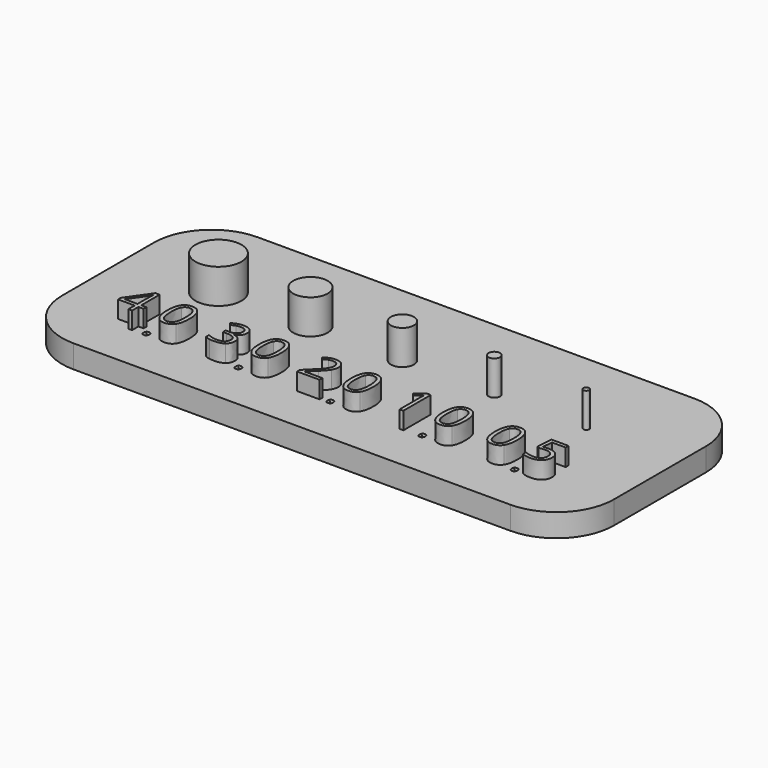
from build123d import *

# Parameters (mm, degrees)
F1_W     = 48
F1_H     = 20
F2_DEPTH = 2
F0_R     = 2
F0_R_2   = 1.5
F0_R_3   = 1
F0_R_4   = 0.5
F0_R_5   = 0.25
F3_DEPTH = 3
F4_DEPTH = 1.5
F5_DEPTH = 1
F6_R     = 5


with BuildPart() as f2:
    # F1 (on face) → F2 (new body)
    with BuildSketch(Plane.XY):
        with Locations((-8, 10)):
            Rectangle(F1_W, F1_H)
    extrude(amount=-F2_DEPTH)

    # F0 (on Top) → F3 (join)
    with BuildSketch(Plane.XY):
        with Locations((-24, 12)):
            Circle(F0_R)
        with Locations((-16, 12)):
            Circle(F0_R_2)
        with Locations((-8, 12)):
            Circle(F0_R_3)
        with Locations((0, 12)):
            Circle(F0_R_4)
        with Locations((8, 12)):
            Circle(F0_R_5)
    extrude(amount=F3_DEPTH)

    # F0 (on Top) → F4 (join)
    with BuildSketch(Plane.XY):
        Polygon((-25.1106770833, 4.68359375), (-24.6692708333, 4.68359375), (-24.6692708333, 4.9908854167), (-25.1106770833, 4.9908854167), (-25.1106770833, 6.9908854167), (-25.46875, 6.9908854167), (-26.880859375, 4.978515625), (-26.880859375, 4.68359375), (-25.4342447917, 4.68359375), (-25.4342447917, 4), (-25.1106770833, 4), align=None)
        with BuildLine():
            Line((-25.4342447917, 5.9798177083), (-25.4342447917, 4.9908854167))
            Line((-25.4342447917, 4.9908854167), (-26.54296875, 4.9908854167))
            Line((-26.54296875, 4.9908854167), (-25.61328125, 6.3131510417))
            add(Edge.make_bspline(
                [(-25.4296875, 6.63671875), (-25.52734375, 6.44140625), (-25.61328125, 6.3131510417)],
                knots=[0, 0, 0, 1, 1, 1], degree=2))
            Line((-25.4296875, 6.63671875), (-25.4134114583, 6.63671875))
            add(Edge.make_bspline(
                [(-25.4342447917, 5.9798177083), (-25.4342447917, 6.2708333333), (-25.4134114583, 6.63671875)],
                knots=[0, 0, 0, 1, 1, 1], degree=2))
        make_face(mode=Mode.SUBTRACT)
        with BuildLine():
            add(Edge.make_bspline(
                [(-21.3020833333, 5.4915364583), (-21.3020833333, 4.7200520833), (-21.5452473958, 4.3395182292)],
                knots=[0, 0, 0, 1, 1, 1], degree=2))
            add(Edge.make_bspline(
                [(-21.5533854167, 6.6285807292), (-21.3020833333, 6.2356770833), (-21.3020833333, 5.4915364583)],
                knots=[0, 0, 0, 1, 1, 1], degree=2))
            add(Edge.make_bspline(
                [(-22.2890625, 7.021484375), (-21.8046875, 7.021484375), (-21.5533854167, 6.6285807292)],
                knots=[0, 0, 0, 1, 1, 1], degree=2))
            add(Edge.make_bspline(
                [(-23.02734375, 6.6448567708), (-22.78515625, 7.021484375), (-22.2890625, 7.021484375)],
                knots=[0, 0, 0, 1, 1, 1], degree=2))
            add(Edge.make_bspline(
                [(-23.26953125, 5.4915364583), (-23.26953125, 6.2682291667), (-23.02734375, 6.6448567708)],
                knots=[0, 0, 0, 1, 1, 1], degree=2))
            add(Edge.make_bspline(
                [(-23.0192057292, 4.3486328125), (-23.26953125, 4.73828125), (-23.26953125, 5.4915364583)],
                knots=[0, 0, 0, 1, 1, 1], degree=2))
            add(Edge.make_bspline(
                [(-22.2890625, 3.958984375), (-22.7688802083, 3.958984375), (-23.0192057292, 4.3486328125)],
                knots=[0, 0, 0, 1, 1, 1], degree=2))
            add(Edge.make_bspline(
                [(-21.5452473958, 4.3395182292), (-21.7884114583, 3.958984375), (-22.2890625, 3.958984375)],
                knots=[0, 0, 0, 1, 1, 1], degree=2))
        make_face()
        with BuildLine():
            add(Edge.make_bspline(
                [(-22.927734375, 5.4915364583), (-22.927734375, 4.8424479167), (-22.7750651042, 4.5462239583)],
                knots=[0, 0, 0, 1, 1, 1], degree=2))
            add(Edge.make_bspline(
                [(-22.7750651042, 6.4345703125), (-22.927734375, 6.140625), (-22.927734375, 5.4915364583)],
                knots=[0, 0, 0, 1, 1, 1], degree=2))
            add(Edge.make_bspline(
                [(-22.2890625, 6.728515625), (-22.6223958333, 6.728515625), (-22.7750651042, 6.4345703125)],
                knots=[0, 0, 0, 1, 1, 1], degree=2))
            add(Edge.make_bspline(
                [(-21.7998046875, 6.4303385417), (-21.951171875, 6.728515625), (-22.2890625, 6.728515625)],
                knots=[0, 0, 0, 1, 1, 1], degree=2))
            add(Edge.make_bspline(
                [(-21.6484375, 5.4915364583), (-21.6484375, 6.1321614583), (-21.7998046875, 6.4303385417)],
                knots=[0, 0, 0, 1, 1, 1], degree=2))
            add(Edge.make_bspline(
                [(-21.7998046875, 4.5501302083), (-21.6484375, 4.8502604167), (-21.6484375, 5.4915364583)],
                knots=[0, 0, 0, 1, 1, 1], degree=2))
            add(Edge.make_bspline(
                [(-22.2890625, 4.25), (-21.951171875, 4.25), (-21.7998046875, 4.5501302083)],
                knots=[0, 0, 0, 1, 1, 1], degree=2))
            add(Edge.make_bspline(
                [(-22.7750651042, 4.5462239583), (-22.6223958333, 4.25), (-22.2890625, 4.25)],
                knots=[0, 0, 0, 1, 1, 1], degree=2))
        make_face(mode=Mode.SUBTRACT)
        with BuildLine():
            add(Edge.make_bspline(
                [(-16.9212239583, 6.2747395833), (-16.9212239583, 5.9895833333), (-17.0810546875, 5.80859375)],
                knots=[0, 0, 0, 1, 1, 1], degree=2))
            add(Edge.make_bspline(
                [(-17.1614583333, 6.8186848958), (-16.9212239583, 6.6204427083), (-16.9212239583, 6.2747395833)],
                knots=[0, 0, 0, 1, 1, 1], degree=2))
            add(Edge.make_bspline(
                [(-17.8346354167, 7.0169270833), (-17.4016927083, 7.0169270833), (-17.1614583333, 6.8186848958)],
                knots=[0, 0, 0, 1, 1, 1], degree=2))
            add(Edge.make_bspline(
                [(-18.3385416667, 6.9345703125), (-18.099609375, 7.0169270833), (-17.8346354167, 7.0169270833)],
                knots=[0, 0, 0, 1, 1, 1], degree=2))
            add(Edge.make_bspline(
                [(-18.7604166667, 6.7076822917), (-18.5774739583, 6.8522135417), (-18.3385416667, 6.9345703125)],
                knots=[0, 0, 0, 1, 1, 1], degree=2))
            Line((-18.7604166667, 6.7076822917), (-18.58984375, 6.4798177083))
            add(Edge.make_bspline(
                [(-18.1949869792, 6.6754557292), (-18.3678385417, 6.6223958333), (-18.58984375, 6.4798177083)],
                knots=[0, 0, 0, 1, 1, 1], degree=2))
            add(Edge.make_bspline(
                [(-17.8268229167, 6.728515625), (-18.0221354167, 6.728515625), (-18.1949869792, 6.6754557292)],
                knots=[0, 0, 0, 1, 1, 1], degree=2))
            add(Edge.make_bspline(
                [(-17.4208984375, 6.6041666667), (-17.5703125, 6.728515625), (-17.8268229167, 6.728515625)],
                knots=[0, 0, 0, 1, 1, 1], degree=2))
            add(Edge.make_bspline(
                [(-17.271484375, 6.2623697917), (-17.271484375, 6.4798177083), (-17.4208984375, 6.6041666667)],
                knots=[0, 0, 0, 1, 1, 1], degree=2))
            add(Edge.make_bspline(
                [(-17.4749348958, 5.8359375), (-17.271484375, 5.9895833333), (-17.271484375, 6.2623697917)],
                knots=[0, 0, 0, 1, 1, 1], degree=2))
            add(Edge.make_bspline(
                [(-18.0260416667, 5.6822916667), (-17.6783854167, 5.6822916667), (-17.4749348958, 5.8359375)],
                knots=[0, 0, 0, 1, 1, 1], degree=2))
            Line((-18.0260416667, 5.6822916667), (-18.3229166667, 5.6822916667))
            Line((-18.3229166667, 5.6822916667), (-18.3229166667, 5.3919270833))
            Line((-18.3229166667, 5.3919270833), (-18.0299479167, 5.3919270833))
            add(Edge.make_bspline(
                [(-17.1796875, 4.8502604167), (-17.1796875, 5.3919270833), (-18.0299479167, 5.3919270833)],
                knots=[0, 0, 0, 1, 1, 1], degree=2))
            add(Edge.make_bspline(
                [(-17.9505208333, 4.24609375), (-17.1796875, 4.24609375), (-17.1796875, 4.8502604167)],
                knots=[0, 0, 0, 1, 1, 1], degree=2))
            add(Edge.make_bspline(
                [(-18.3645833333, 4.2958984375), (-18.1458333333, 4.24609375), (-17.9505208333, 4.24609375)],
                knots=[0, 0, 0, 1, 1, 1], degree=2))
            add(Edge.make_bspline(
                [(-18.7766927083, 4.44140625), (-18.5833333333, 4.345703125), (-18.3645833333, 4.2958984375)],
                knots=[0, 0, 0, 1, 1, 1], degree=2))
            Line((-18.7766927083, 4.44140625), (-18.7766927083, 4.1197916667))
            add(Edge.make_bspline(
                [(-18.3955078125, 3.9947916667), (-18.591796875, 4.0305989583), (-18.7766927083, 4.1197916667)],
                knots=[0, 0, 0, 1, 1, 1], degree=2))
            add(Edge.make_bspline(
                [(-17.962890625, 3.958984375), (-18.19921875, 3.958984375), (-18.3955078125, 3.9947916667)],
                knots=[0, 0, 0, 1, 1, 1], degree=2))
            add(Edge.make_bspline(
                [(-17.125, 4.1881510417), (-17.419921875, 3.958984375), (-17.962890625, 3.958984375)],
                knots=[0, 0, 0, 1, 1, 1], degree=2))
            add(Edge.make_bspline(
                [(-16.830078125, 4.8424479167), (-16.830078125, 4.4173177083), (-17.125, 4.1881510417)],
                knots=[0, 0, 0, 1, 1, 1], degree=2))
            add(Edge.make_bspline(
                [(-17.0029296875, 5.3225911458), (-16.830078125, 5.1393229167), (-16.830078125, 4.8424479167)],
                knots=[0, 0, 0, 1, 1, 1], degree=2))
            add(Edge.make_bspline(
                [(-17.5338541667, 5.5501302083), (-17.17578125, 5.505859375), (-17.0029296875, 5.3225911458)],
                knots=[0, 0, 0, 1, 1, 1], degree=2))
            Line((-17.5338541667, 5.5501302083), (-17.5338541667, 5.56640625))
            add(Edge.make_bspline(
                [(-17.0810546875, 5.80859375), (-17.2408854167, 5.6276041667), (-17.5338541667, 5.56640625)],
                knots=[0, 0, 0, 1, 1, 1], degree=2))
        make_face()
        with BuildLine():
            add(Edge.make_bspline(
                [(-13.3020833333, 5.4915364583), (-13.3020833333, 4.7200520833), (-13.5452473958, 4.3395182292)],
                knots=[0, 0, 0, 1, 1, 1], degree=2))
            add(Edge.make_bspline(
                [(-13.5533854167, 6.6285807292), (-13.3020833333, 6.2356770833), (-13.3020833333, 5.4915364583)],
                knots=[0, 0, 0, 1, 1, 1], degree=2))
            add(Edge.make_bspline(
                [(-14.2890625, 7.021484375), (-13.8046875, 7.021484375), (-13.5533854167, 6.6285807292)],
                knots=[0, 0, 0, 1, 1, 1], degree=2))
            add(Edge.make_bspline(
                [(-15.02734375, 6.6448567708), (-14.78515625, 7.021484375), (-14.2890625, 7.021484375)],
                knots=[0, 0, 0, 1, 1, 1], degree=2))
            add(Edge.make_bspline(
                [(-15.26953125, 5.4915364583), (-15.26953125, 6.2682291667), (-15.02734375, 6.6448567708)],
                knots=[0, 0, 0, 1, 1, 1], degree=2))
            add(Edge.make_bspline(
                [(-15.0192057292, 4.3486328125), (-15.26953125, 4.73828125), (-15.26953125, 5.4915364583)],
                knots=[0, 0, 0, 1, 1, 1], degree=2))
            add(Edge.make_bspline(
                [(-14.2890625, 3.958984375), (-14.7688802083, 3.958984375), (-15.0192057292, 4.3486328125)],
                knots=[0, 0, 0, 1, 1, 1], degree=2))
            add(Edge.make_bspline(
                [(-13.5452473958, 4.3395182292), (-13.7884114583, 3.958984375), (-14.2890625, 3.958984375)],
                knots=[0, 0, 0, 1, 1, 1], degree=2))
        make_face()
        with BuildLine():
            add(Edge.make_bspline(
                [(-14.927734375, 5.4915364583), (-14.927734375, 4.8424479167), (-14.7750651042, 4.5462239583)],
                knots=[0, 0, 0, 1, 1, 1], degree=2))
            add(Edge.make_bspline(
                [(-14.7750651042, 6.4345703125), (-14.927734375, 6.140625), (-14.927734375, 5.4915364583)],
                knots=[0, 0, 0, 1, 1, 1], degree=2))
            add(Edge.make_bspline(
                [(-14.2890625, 6.728515625), (-14.6223958333, 6.728515625), (-14.7750651042, 6.4345703125)],
                knots=[0, 0, 0, 1, 1, 1], degree=2))
            add(Edge.make_bspline(
                [(-13.7998046875, 6.4303385417), (-13.951171875, 6.728515625), (-14.2890625, 6.728515625)],
                knots=[0, 0, 0, 1, 1, 1], degree=2))
            add(Edge.make_bspline(
                [(-13.6484375, 5.4915364583), (-13.6484375, 6.1321614583), (-13.7998046875, 6.4303385417)],
                knots=[0, 0, 0, 1, 1, 1], degree=2))
            add(Edge.make_bspline(
                [(-13.7998046875, 4.5501302083), (-13.6484375, 4.8502604167), (-13.6484375, 5.4915364583)],
                knots=[0, 0, 0, 1, 1, 1], degree=2))
            add(Edge.make_bspline(
                [(-14.2890625, 4.25), (-13.951171875, 4.25), (-13.7998046875, 4.5501302083)],
                knots=[0, 0, 0, 1, 1, 1], degree=2))
            add(Edge.make_bspline(
                [(-14.7750651042, 4.5462239583), (-14.6223958333, 4.25), (-14.2890625, 4.25)],
                knots=[0, 0, 0, 1, 1, 1], degree=2))
        make_face(mode=Mode.SUBTRACT)
        with BuildLine():
            Line((-10.7643229167, 4), (-8.8092447917, 4))
            Line((-8.8092447917, 4), (-8.8092447917, 4.3131510417))
            Line((-8.8092447917, 4.3131510417), (-10.3391927083, 4.3131510417))
            Line((-10.3391927083, 4.3131510417), (-10.3391927083, 4.3294270833))
            Line((-10.3391927083, 4.3294270833), (-9.6881510417, 4.9661458333))
            add(Edge.make_bspline(
                [(-9.0944010417, 5.666015625), (-9.2532552083, 5.3893229167), (-9.6881510417, 4.9661458333)],
                knots=[0, 0, 0, 1, 1, 1], degree=2))
            add(Edge.make_bspline(
                [(-8.935546875, 6.2259114583), (-8.935546875, 5.9427083333), (-9.0944010417, 5.666015625)],
                knots=[0, 0, 0, 1, 1, 1], degree=2))
            add(Edge.make_bspline(
                [(-9.1735026042, 6.8024088542), (-8.935546875, 6.587890625), (-8.935546875, 6.2259114583)],
                knots=[0, 0, 0, 1, 1, 1], degree=2))
            add(Edge.make_bspline(
                [(-9.8307291667, 7.0169270833), (-9.4114583333, 7.0169270833), (-9.1735026042, 6.8024088542)],
                knots=[0, 0, 0, 1, 1, 1], degree=2))
            add(Edge.make_bspline(
                [(-10.7259114583, 6.6751302083), (-10.3151041667, 7.0169270833), (-9.8307291667, 7.0169270833)],
                knots=[0, 0, 0, 1, 1, 1], degree=2))
            Line((-10.7259114583, 6.6751302083), (-10.546875, 6.4453125))
            add(Edge.make_bspline(
                [(-10.177734375, 6.6673177083), (-10.34375, 6.6061197917), (-10.546875, 6.4453125)],
                knots=[0, 0, 0, 1, 1, 1], degree=2))
            add(Edge.make_bspline(
                [(-9.8268229167, 6.728515625), (-10.01171875, 6.728515625), (-10.177734375, 6.6673177083)],
                knots=[0, 0, 0, 1, 1, 1], degree=2))
            add(Edge.make_bspline(
                [(-9.42578125, 6.5891927083), (-9.5703125, 6.728515625), (-9.8268229167, 6.728515625)],
                knots=[0, 0, 0, 1, 1, 1], degree=2))
            add(Edge.make_bspline(
                [(-9.28125, 6.2115885417), (-9.28125, 6.4498697917), (-9.42578125, 6.5891927083)],
                knots=[0, 0, 0, 1, 1, 1], degree=2))
            add(Edge.make_bspline(
                [(-9.3382161458, 5.896484375), (-9.28125, 6.04296875), (-9.28125, 6.2115885417)],
                knots=[0, 0, 0, 1, 1, 1], degree=2))
            add(Edge.make_bspline(
                [(-9.5091145833, 5.5953776042), (-9.3951822917, 5.75), (-9.3382161458, 5.896484375)],
                knots=[0, 0, 0, 1, 1, 1], degree=2))
            add(Edge.make_bspline(
                [(-9.9811197917, 5.078125), (-9.623046875, 5.4407552083), (-9.5091145833, 5.5953776042)],
                knots=[0, 0, 0, 1, 1, 1], degree=2))
            Line((-9.9811197917, 5.078125), (-10.7643229167, 4.291015625))
            Line((-10.7643229167, 4.291015625), (-10.7643229167, 4))
        make_face()
        with BuildLine():
            add(Edge.make_bspline(
                [(-5.3020833333, 5.4915364583), (-5.3020833333, 4.7200520833), (-5.5452473958, 4.3395182292)],
                knots=[0, 0, 0, 1, 1, 1], degree=2))
            add(Edge.make_bspline(
                [(-5.5533854167, 6.6285807292), (-5.3020833333, 6.2356770833), (-5.3020833333, 5.4915364583)],
                knots=[0, 0, 0, 1, 1, 1], degree=2))
            add(Edge.make_bspline(
                [(-6.2890625, 7.021484375), (-5.8046875, 7.021484375), (-5.5533854167, 6.6285807292)],
                knots=[0, 0, 0, 1, 1, 1], degree=2))
            add(Edge.make_bspline(
                [(-7.02734375, 6.6448567708), (-6.78515625, 7.021484375), (-6.2890625, 7.021484375)],
                knots=[0, 0, 0, 1, 1, 1], degree=2))
            add(Edge.make_bspline(
                [(-7.26953125, 5.4915364583), (-7.26953125, 6.2682291667), (-7.02734375, 6.6448567708)],
                knots=[0, 0, 0, 1, 1, 1], degree=2))
            add(Edge.make_bspline(
                [(-7.0192057292, 4.3486328125), (-7.26953125, 4.73828125), (-7.26953125, 5.4915364583)],
                knots=[0, 0, 0, 1, 1, 1], degree=2))
            add(Edge.make_bspline(
                [(-6.2890625, 3.958984375), (-6.7688802083, 3.958984375), (-7.0192057292, 4.3486328125)],
                knots=[0, 0, 0, 1, 1, 1], degree=2))
            add(Edge.make_bspline(
                [(-5.5452473958, 4.3395182292), (-5.7884114583, 3.958984375), (-6.2890625, 3.958984375)],
                knots=[0, 0, 0, 1, 1, 1], degree=2))
        make_face()
        with BuildLine():
            add(Edge.make_bspline(
                [(-6.927734375, 5.4915364583), (-6.927734375, 4.8424479167), (-6.7750651042, 4.5462239583)],
                knots=[0, 0, 0, 1, 1, 1], degree=2))
            add(Edge.make_bspline(
                [(-6.7750651042, 6.4345703125), (-6.927734375, 6.140625), (-6.927734375, 5.4915364583)],
                knots=[0, 0, 0, 1, 1, 1], degree=2))
            add(Edge.make_bspline(
                [(-6.2890625, 6.728515625), (-6.6223958333, 6.728515625), (-6.7750651042, 6.4345703125)],
                knots=[0, 0, 0, 1, 1, 1], degree=2))
            add(Edge.make_bspline(
                [(-5.7998046875, 6.4303385417), (-5.951171875, 6.728515625), (-6.2890625, 6.728515625)],
                knots=[0, 0, 0, 1, 1, 1], degree=2))
            add(Edge.make_bspline(
                [(-5.6484375, 5.4915364583), (-5.6484375, 6.1321614583), (-5.7998046875, 6.4303385417)],
                knots=[0, 0, 0, 1, 1, 1], degree=2))
            add(Edge.make_bspline(
                [(-5.7998046875, 4.5501302083), (-5.6484375, 4.8502604167), (-5.6484375, 5.4915364583)],
                knots=[0, 0, 0, 1, 1, 1], degree=2))
            add(Edge.make_bspline(
                [(-6.2890625, 4.25), (-5.951171875, 4.25), (-5.7998046875, 4.5501302083)],
                knots=[0, 0, 0, 1, 1, 1], degree=2))
            add(Edge.make_bspline(
                [(-6.7750651042, 4.5462239583), (-6.6223958333, 4.25), (-6.2890625, 4.25)],
                knots=[0, 0, 0, 1, 1, 1], degree=2))
        make_face(mode=Mode.SUBTRACT)
        with BuildLine():
            Line((-1.8430989583, 4), (-1.513671875, 4))
            Line((-1.513671875, 4), (-1.513671875, 6.974609375))
            Line((-1.513671875, 6.974609375), (-1.7981770833, 6.974609375))
            Line((-1.7981770833, 6.974609375), (-2.5852864583, 6.3658854167))
            Line((-2.5852864583, 6.3658854167), (-2.40625, 6.1341145833))
            add(Edge.make_bspline(
                [(-1.9222005208, 6.5309244792), (-1.9752604167, 6.484375), (-2.40625, 6.1341145833)],
                knots=[0, 0, 0, 1, 1, 1], degree=2))
            add(Edge.make_bspline(
                [(-1.8268229167, 6.6204427083), (-1.869140625, 6.5774739583), (-1.9222005208, 6.5309244792)],
                knots=[0, 0, 0, 1, 1, 1], degree=2))
            add(Edge.make_bspline(
                [(-1.8430989583, 6.1197916667), (-1.8430989583, 6.384765625), (-1.8268229167, 6.6204427083)],
                knots=[0, 0, 0, 1, 1, 1], degree=2))
            Line((-1.8430989583, 6.1197916667), (-1.8430989583, 4))
        make_face()
        with BuildLine():
            add(Edge.make_bspline(
                [(2.6979166667, 5.4915364583), (2.6979166667, 4.7200520833), (2.4547526042, 4.3395182292)],
                knots=[0, 0, 0, 1, 1, 1], degree=2))
            add(Edge.make_bspline(
                [(2.4466145833, 6.6285807292), (2.6979166667, 6.2356770833), (2.6979166667, 5.4915364583)],
                knots=[0, 0, 0, 1, 1, 1], degree=2))
            add(Edge.make_bspline(
                [(1.7109375, 7.021484375), (2.1953125, 7.021484375), (2.4466145833, 6.6285807292)],
                knots=[0, 0, 0, 1, 1, 1], degree=2))
            add(Edge.make_bspline(
                [(0.97265625, 6.6448567708), (1.21484375, 7.021484375), (1.7109375, 7.021484375)],
                knots=[0, 0, 0, 1, 1, 1], degree=2))
            add(Edge.make_bspline(
                [(0.73046875, 5.4915364583), (0.73046875, 6.2682291667), (0.97265625, 6.6448567708)],
                knots=[0, 0, 0, 1, 1, 1], degree=2))
            add(Edge.make_bspline(
                [(0.9807942708, 4.3486328125), (0.73046875, 4.73828125), (0.73046875, 5.4915364583)],
                knots=[0, 0, 0, 1, 1, 1], degree=2))
            add(Edge.make_bspline(
                [(1.7109375, 3.958984375), (1.2311197917, 3.958984375), (0.9807942708, 4.3486328125)],
                knots=[0, 0, 0, 1, 1, 1], degree=2))
            add(Edge.make_bspline(
                [(2.4547526042, 4.3395182292), (2.2115885417, 3.958984375), (1.7109375, 3.958984375)],
                knots=[0, 0, 0, 1, 1, 1], degree=2))
        make_face()
        with BuildLine():
            add(Edge.make_bspline(
                [(1.072265625, 5.4915364583), (1.072265625, 4.8424479167), (1.2249348958, 4.5462239583)],
                knots=[0, 0, 0, 1, 1, 1], degree=2))
            add(Edge.make_bspline(
                [(1.2249348958, 6.4345703125), (1.072265625, 6.140625), (1.072265625, 5.4915364583)],
                knots=[0, 0, 0, 1, 1, 1], degree=2))
            add(Edge.make_bspline(
                [(1.7109375, 6.728515625), (1.3776041667, 6.728515625), (1.2249348958, 6.4345703125)],
                knots=[0, 0, 0, 1, 1, 1], degree=2))
            add(Edge.make_bspline(
                [(2.2001953125, 6.4303385417), (2.048828125, 6.728515625), (1.7109375, 6.728515625)],
                knots=[0, 0, 0, 1, 1, 1], degree=2))
            add(Edge.make_bspline(
                [(2.3515625, 5.4915364583), (2.3515625, 6.1321614583), (2.2001953125, 6.4303385417)],
                knots=[0, 0, 0, 1, 1, 1], degree=2))
            add(Edge.make_bspline(
                [(2.2001953125, 4.5501302083), (2.3515625, 4.8502604167), (2.3515625, 5.4915364583)],
                knots=[0, 0, 0, 1, 1, 1], degree=2))
            add(Edge.make_bspline(
                [(1.7109375, 4.25), (2.048828125, 4.25), (2.2001953125, 4.5501302083)],
                knots=[0, 0, 0, 1, 1, 1], degree=2))
            add(Edge.make_bspline(
                [(1.2249348958, 4.5462239583), (1.3776041667, 4.25), (1.7109375, 4.25)],
                knots=[0, 0, 0, 1, 1, 1], degree=2))
        make_face(mode=Mode.SUBTRACT)
        with BuildLine():
            add(Edge.make_bspline(
                [(7.2233072917, 5.4915364583), (7.2233072917, 4.7200520833), (6.9801432292, 4.3395182292)],
                knots=[0, 0, 0, 1, 1, 1], degree=2))
            add(Edge.make_bspline(
                [(6.9720052083, 6.6285807292), (7.2233072917, 6.2356770833), (7.2233072917, 5.4915364583)],
                knots=[0, 0, 0, 1, 1, 1], degree=2))
            add(Edge.make_bspline(
                [(6.236328125, 7.021484375), (6.720703125, 7.021484375), (6.9720052083, 6.6285807292)],
                knots=[0, 0, 0, 1, 1, 1], degree=2))
            add(Edge.make_bspline(
                [(5.498046875, 6.6448567708), (5.740234375, 7.021484375), (6.236328125, 7.021484375)],
                knots=[0, 0, 0, 1, 1, 1], degree=2))
            add(Edge.make_bspline(
                [(5.255859375, 5.4915364583), (5.255859375, 6.2682291667), (5.498046875, 6.6448567708)],
                knots=[0, 0, 0, 1, 1, 1], degree=2))
            add(Edge.make_bspline(
                [(5.5061848958, 4.3486328125), (5.255859375, 4.73828125), (5.255859375, 5.4915364583)],
                knots=[0, 0, 0, 1, 1, 1], degree=2))
            add(Edge.make_bspline(
                [(6.236328125, 3.958984375), (5.7565104167, 3.958984375), (5.5061848958, 4.3486328125)],
                knots=[0, 0, 0, 1, 1, 1], degree=2))
            add(Edge.make_bspline(
                [(6.9801432292, 4.3395182292), (6.7369791667, 3.958984375), (6.236328125, 3.958984375)],
                knots=[0, 0, 0, 1, 1, 1], degree=2))
        make_face()
        with BuildLine():
            add(Edge.make_bspline(
                [(5.59765625, 5.4915364583), (5.59765625, 4.8424479167), (5.7503255208, 4.5462239583)],
                knots=[0, 0, 0, 1, 1, 1], degree=2))
            add(Edge.make_bspline(
                [(5.7503255208, 6.4345703125), (5.59765625, 6.140625), (5.59765625, 5.4915364583)],
                knots=[0, 0, 0, 1, 1, 1], degree=2))
            add(Edge.make_bspline(
                [(6.236328125, 6.728515625), (5.9029947917, 6.728515625), (5.7503255208, 6.4345703125)],
                knots=[0, 0, 0, 1, 1, 1], degree=2))
            add(Edge.make_bspline(
                [(6.7255859375, 6.4303385417), (6.57421875, 6.728515625), (6.236328125, 6.728515625)],
                knots=[0, 0, 0, 1, 1, 1], degree=2))
            add(Edge.make_bspline(
                [(6.876953125, 5.4915364583), (6.876953125, 6.1321614583), (6.7255859375, 6.4303385417)],
                knots=[0, 0, 0, 1, 1, 1], degree=2))
            add(Edge.make_bspline(
                [(6.7255859375, 4.5501302083), (6.876953125, 4.8502604167), (6.876953125, 5.4915364583)],
                knots=[0, 0, 0, 1, 1, 1], degree=2))
            add(Edge.make_bspline(
                [(6.236328125, 4.25), (6.57421875, 4.25), (6.7255859375, 4.5501302083)],
                knots=[0, 0, 0, 1, 1, 1], degree=2))
            add(Edge.make_bspline(
                [(5.7503255208, 4.5462239583), (5.9029947917, 4.25), (6.236328125, 4.25)],
                knots=[0, 0, 0, 1, 1, 1], degree=2))
        make_face(mode=Mode.SUBTRACT)
        with BuildLine():
            add(Edge.make_bspline(
                [(9.6725260417, 5.8170572917), (10.142578125, 5.8170572917), (10.412109375, 5.583984375)],
                knots=[0, 0, 0, 1, 1, 1], degree=2))
            add(Edge.make_bspline(
                [(9.2063802083, 5.7701822917), (9.4401041667, 5.8170572917), (9.6725260417, 5.8170572917)],
                knots=[0, 0, 0, 1, 1, 1], degree=2))
            Line((9.2063802083, 5.7701822917), (9.2819010417, 6.6634114583))
            Line((9.2819010417, 6.6634114583), (10.4720052083, 6.6634114583))
            Line((10.4720052083, 6.6634114583), (10.4720052083, 6.974609375))
            Line((10.4720052083, 6.974609375), (8.9928385417, 6.974609375))
            Line((8.9928385417, 6.974609375), (8.880859375, 5.5826822917))
            Line((8.880859375, 5.5826822917), (9.0559895833, 5.470703125))
            add(Edge.make_bspline(
                [(9.5729166667, 5.5299479167), (9.3795572917, 5.5299479167), (9.0559895833, 5.470703125)],
                knots=[0, 0, 0, 1, 1, 1], degree=2))
            add(Edge.make_bspline(
                [(10.3352864583, 4.9075520833), (10.3352864583, 5.5299479167), (9.5729166667, 5.5299479167)],
                knots=[0, 0, 0, 1, 1, 1], degree=2))
            add(Edge.make_bspline(
                [(10.1370442708, 4.4189453125), (10.3352864583, 4.587890625), (10.3352864583, 4.9075520833)],
                knots=[0, 0, 0, 1, 1, 1], degree=2))
            add(Edge.make_bspline(
                [(9.5807291667, 4.25), (9.9388020833, 4.25), (10.1370442708, 4.4189453125)],
                knots=[0, 0, 0, 1, 1, 1], degree=2))
            add(Edge.make_bspline(
                [(9.1634114583, 4.3020833333), (9.375, 4.25), (9.5807291667, 4.25)],
                knots=[0, 0, 0, 1, 1, 1], degree=2))
            add(Edge.make_bspline(
                [(8.8098958333, 4.4453125), (8.9518229167, 4.3541666667), (9.1634114583, 4.3020833333)],
                knots=[0, 0, 0, 1, 1, 1], degree=2))
            Line((8.8098958333, 4.4453125), (8.8098958333, 4.1197916667))
            add(Edge.make_bspline(
                [(9.5768229167, 3.958984375), (9.07421875, 3.958984375), (8.8098958333, 4.1197916667)],
                knots=[0, 0, 0, 1, 1, 1], degree=2))
            add(Edge.make_bspline(
                [(10.3876953125, 4.2216796875), (10.09375, 3.958984375), (9.5768229167, 3.958984375)],
                knots=[0, 0, 0, 1, 1, 1], degree=2))
            add(Edge.make_bspline(
                [(10.681640625, 4.9459635417), (10.681640625, 4.484375), (10.3876953125, 4.2216796875)],
                knots=[0, 0, 0, 1, 1, 1], degree=2))
            add(Edge.make_bspline(
                [(10.412109375, 5.583984375), (10.681640625, 5.3509114583), (10.681640625, 4.9459635417)],
                knots=[0, 0, 0, 1, 1, 1], degree=2))
        make_face()
    extrude(amount=F4_DEPTH)

    # F0 (on Top) → F5 (cut)
    with BuildSketch(Plane.XY):
        with BuildLine():
            add(Edge.make_bspline(
                [(-24.2766927083, 4.2154947917), (-24.2766927083, 4.3522135417), (-24.2145182292, 4.4222005208)],
                knots=[0, 0, 0, 1, 1, 1], degree=2))
            add(Edge.make_bspline(
                [(-24.2086588542, 4.0048828125), (-24.2766927083, 4.0690104167), (-24.2766927083, 4.2154947917)],
                knots=[0, 0, 0, 1, 1, 1], degree=2))
            add(Edge.make_bspline(
                [(-24.0364583333, 3.9407552083), (-24.140625, 3.9407552083), (-24.2086588542, 4.0048828125)],
                knots=[0, 0, 0, 1, 1, 1], degree=2))
            add(Edge.make_bspline(
                [(-23.853515625, 4.0120442708), (-23.9205729167, 3.9407552083), (-24.0364583333, 3.9407552083)],
                knots=[0, 0, 0, 1, 1, 1], degree=2))
            add(Edge.make_bspline(
                [(-23.7864583333, 4.2154947917), (-23.7864583333, 4.0833333333), (-23.853515625, 4.0120442708)],
                knots=[0, 0, 0, 1, 1, 1], degree=2))
            add(Edge.make_bspline(
                [(-23.8525390625, 4.4222005208), (-23.7864583333, 4.3522135417), (-23.7864583333, 4.2154947917)],
                knots=[0, 0, 0, 1, 1, 1], degree=2))
            add(Edge.make_bspline(
                [(-24.0364583333, 4.4921875), (-23.9186197917, 4.4921875), (-23.8525390625, 4.4222005208)],
                knots=[0, 0, 0, 1, 1, 1], degree=2))
            add(Edge.make_bspline(
                [(-24.2145182292, 4.4222005208), (-24.15234375, 4.4921875), (-24.0364583333, 4.4921875)],
                knots=[0, 0, 0, 1, 1, 1], degree=2))
        make_face()
        with BuildLine():
            add(Edge.make_bspline(
                [(-16.2766927083, 4.2154947917), (-16.2766927083, 4.3522135417), (-16.2145182292, 4.4222005208)],
                knots=[0, 0, 0, 1, 1, 1], degree=2))
            add(Edge.make_bspline(
                [(-16.2086588542, 4.0048828125), (-16.2766927083, 4.0690104167), (-16.2766927083, 4.2154947917)],
                knots=[0, 0, 0, 1, 1, 1], degree=2))
            add(Edge.make_bspline(
                [(-16.0364583333, 3.9407552083), (-16.140625, 3.9407552083), (-16.2086588542, 4.0048828125)],
                knots=[0, 0, 0, 1, 1, 1], degree=2))
            add(Edge.make_bspline(
                [(-15.853515625, 4.0120442708), (-15.9205729167, 3.9407552083), (-16.0364583333, 3.9407552083)],
                knots=[0, 0, 0, 1, 1, 1], degree=2))
            add(Edge.make_bspline(
                [(-15.7864583333, 4.2154947917), (-15.7864583333, 4.0833333333), (-15.853515625, 4.0120442708)],
                knots=[0, 0, 0, 1, 1, 1], degree=2))
            add(Edge.make_bspline(
                [(-15.8525390625, 4.4222005208), (-15.7864583333, 4.3522135417), (-15.7864583333, 4.2154947917)],
                knots=[0, 0, 0, 1, 1, 1], degree=2))
            add(Edge.make_bspline(
                [(-16.0364583333, 4.4921875), (-15.9186197917, 4.4921875), (-15.8525390625, 4.4222005208)],
                knots=[0, 0, 0, 1, 1, 1], degree=2))
            add(Edge.make_bspline(
                [(-16.2145182292, 4.4222005208), (-16.15234375, 4.4921875), (-16.0364583333, 4.4921875)],
                knots=[0, 0, 0, 1, 1, 1], degree=2))
        make_face()
        with BuildLine():
            add(Edge.make_bspline(
                [(-8.2766927083, 4.2154947917), (-8.2766927083, 4.3522135417), (-8.2145182292, 4.4222005208)],
                knots=[0, 0, 0, 1, 1, 1], degree=2))
            add(Edge.make_bspline(
                [(-8.2086588542, 4.0048828125), (-8.2766927083, 4.0690104167), (-8.2766927083, 4.2154947917)],
                knots=[0, 0, 0, 1, 1, 1], degree=2))
            add(Edge.make_bspline(
                [(-8.0364583333, 3.9407552083), (-8.140625, 3.9407552083), (-8.2086588542, 4.0048828125)],
                knots=[0, 0, 0, 1, 1, 1], degree=2))
            add(Edge.make_bspline(
                [(-7.853515625, 4.0120442708), (-7.9205729167, 3.9407552083), (-8.0364583333, 3.9407552083)],
                knots=[0, 0, 0, 1, 1, 1], degree=2))
            add(Edge.make_bspline(
                [(-7.7864583333, 4.2154947917), (-7.7864583333, 4.0833333333), (-7.853515625, 4.0120442708)],
                knots=[0, 0, 0, 1, 1, 1], degree=2))
            add(Edge.make_bspline(
                [(-7.8525390625, 4.4222005208), (-7.7864583333, 4.3522135417), (-7.7864583333, 4.2154947917)],
                knots=[0, 0, 0, 1, 1, 1], degree=2))
            add(Edge.make_bspline(
                [(-8.0364583333, 4.4921875), (-7.9186197917, 4.4921875), (-7.8525390625, 4.4222005208)],
                knots=[0, 0, 0, 1, 1, 1], degree=2))
            add(Edge.make_bspline(
                [(-8.2145182292, 4.4222005208), (-8.15234375, 4.4921875), (-8.0364583333, 4.4921875)],
                knots=[0, 0, 0, 1, 1, 1], degree=2))
        make_face()
        with BuildLine():
            add(Edge.make_bspline(
                [(-0.2766927083, 4.2154947917), (-0.2766927083, 4.3522135417), (-0.2145182292, 4.4222005208)],
                knots=[0, 0, 0, 1, 1, 1], degree=2))
            add(Edge.make_bspline(
                [(-0.2086588542, 4.0048828125), (-0.2766927083, 4.0690104167), (-0.2766927083, 4.2154947917)],
                knots=[0, 0, 0, 1, 1, 1], degree=2))
            add(Edge.make_bspline(
                [(-0.0364583333, 3.9407552083), (-0.140625, 3.9407552083), (-0.2086588542, 4.0048828125)],
                knots=[0, 0, 0, 1, 1, 1], degree=2))
            add(Edge.make_bspline(
                [(0.146484375, 4.0120442708), (0.0794270833, 3.9407552083), (-0.0364583333, 3.9407552083)],
                knots=[0, 0, 0, 1, 1, 1], degree=2))
            add(Edge.make_bspline(
                [(0.2135416667, 4.2154947917), (0.2135416667, 4.0833333333), (0.146484375, 4.0120442708)],
                knots=[0, 0, 0, 1, 1, 1], degree=2))
            add(Edge.make_bspline(
                [(0.1474609375, 4.4222005208), (0.2135416667, 4.3522135417), (0.2135416667, 4.2154947917)],
                knots=[0, 0, 0, 1, 1, 1], degree=2))
            add(Edge.make_bspline(
                [(-0.0364583333, 4.4921875), (0.0813802083, 4.4921875), (0.1474609375, 4.4222005208)],
                knots=[0, 0, 0, 1, 1, 1], degree=2))
            add(Edge.make_bspline(
                [(-0.2145182292, 4.4222005208), (-0.15234375, 4.4921875), (-0.0364583333, 4.4921875)],
                knots=[0, 0, 0, 1, 1, 1], degree=2))
        make_face()
        with BuildLine():
            add(Edge.make_bspline(
                [(7.7395833333, 4.2154947917), (7.7395833333, 4.3522135417), (7.8017578125, 4.4222005208)],
                knots=[0, 0, 0, 1, 1, 1], degree=2))
            add(Edge.make_bspline(
                [(7.8076171875, 4.0048828125), (7.7395833333, 4.0690104167), (7.7395833333, 4.2154947917)],
                knots=[0, 0, 0, 1, 1, 1], degree=2))
            add(Edge.make_bspline(
                [(7.9798177083, 3.9407552083), (7.8756510417, 3.9407552083), (7.8076171875, 4.0048828125)],
                knots=[0, 0, 0, 1, 1, 1], degree=2))
            add(Edge.make_bspline(
                [(8.1627604167, 4.0120442708), (8.095703125, 3.9407552083), (7.9798177083, 3.9407552083)],
                knots=[0, 0, 0, 1, 1, 1], degree=2))
            add(Edge.make_bspline(
                [(8.2298177083, 4.2154947917), (8.2298177083, 4.0833333333), (8.1627604167, 4.0120442708)],
                knots=[0, 0, 0, 1, 1, 1], degree=2))
            add(Edge.make_bspline(
                [(8.1637369792, 4.4222005208), (8.2298177083, 4.3522135417), (8.2298177083, 4.2154947917)],
                knots=[0, 0, 0, 1, 1, 1], degree=2))
            add(Edge.make_bspline(
                [(7.9798177083, 4.4921875), (8.09765625, 4.4921875), (8.1637369792, 4.4222005208)],
                knots=[0, 0, 0, 1, 1, 1], degree=2))
            add(Edge.make_bspline(
                [(7.8017578125, 4.4222005208), (7.8639322917, 4.4921875), (7.9798177083, 4.4921875)],
                knots=[0, 0, 0, 1, 1, 1], degree=2))
        make_face()
    extrude(amount=-F5_DEPTH, mode=Mode.SUBTRACT)

    # F6
    f6_edges = [f2.edges().sort_by_distance(p)[0] for p in [
        (16, 0, -1),
        (16, 20, -1),
        (-32, 0, -1),
        (-32, 20, -1),
    ]]
    fillet(f6_edges, radius=F6_R)


solid = f2.part
